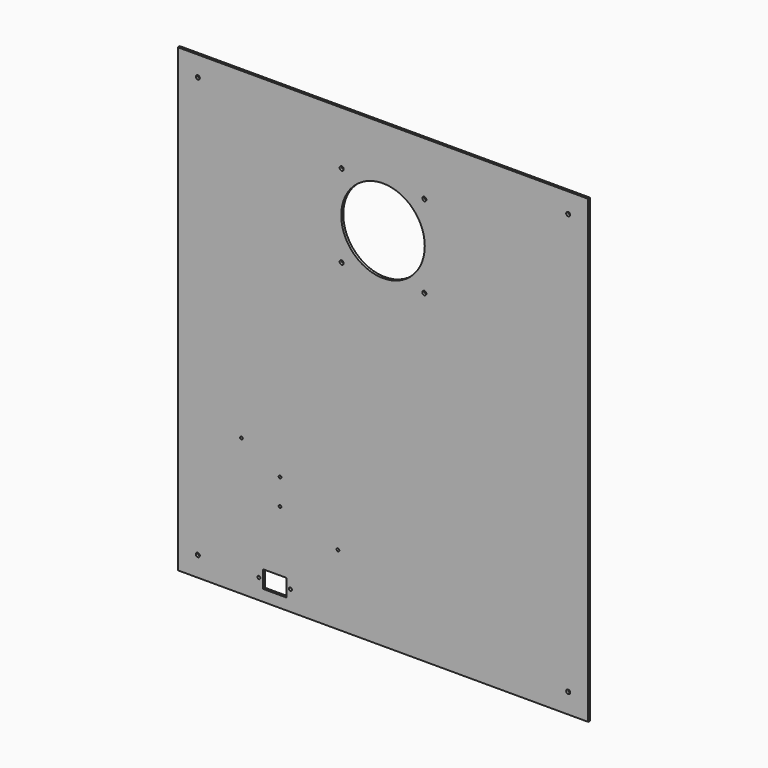
from build123d import *

# Parameters (mm, degrees)
SKETCH_W          = 520.7
SKETCH_H          = 584.2
PAD_DEPTH         = 3.175
CYLINDER_R        = 1.75
CYLINDER_DEPTH    = 3.175
CYLINDER001_R     = 1.75
CYLINDER001_DEPTH = 3.175
CYLINDER002_R     = 1.75
CYLINDER002_DEPTH = 3.175
CYLINDER003_R     = 1.75
CYLINDER003_DEPTH = 3.175
CYLINDER004_R     = 52.9996
CYLINDER004_DEPTH = 3.175
CYLINDER005_R     = 2.54
CYLINDER005_DEPTH = 3.175
CYLINDER006_R     = 2.54
CYLINDER006_DEPTH = 3.175
CYLINDER007_R     = 2.54
CYLINDER007_DEPTH = 3.175
CYLINDER008_R     = 2.54
CYLINDER008_DEPTH = 3.175
BOX_W             = 30
BOX_H             = 22
BOX_DEPTH         = 3.2
CYLINDER009_R     = 1.9
CYLINDER009_DEPTH = 3.2
CYLINDER010_R     = 1.9
CYLINDER010_DEPTH = 3.2
CYLINDER011_R     = 2.54
CYLINDER011_DEPTH = 3.175
CYLINDER012_R     = 2.54
CYLINDER012_DEPTH = 3.175
CYLINDER013_R     = 2.54
CYLINDER013_DEPTH = 3.175
CYLINDER014_R     = 2.54
CYLINDER014_DEPTH = 3.175


with BuildPart() as part:
    # Sketch → Pad (new body)
    with BuildSketch(Plane.XZ):
        Rectangle(SKETCH_W, SKETCH_H)
    extrude(amount=PAD_DEPTH)

    # Cylinder → Cylinder (cut)
    with BuildSketch(Plane(origin=(-179.64912, 0, -118.1989), x_dir=(1, 0, 0), z_dir=(0, -1, 0))):
        Circle(CYLINDER_R)
    extrude(amount=CYLINDER_DEPTH, mode=Mode.SUBTRACT)

    # Cylinder001 → Cylinder001 (cut)
    with BuildSketch(Plane(origin=(-57.14912, 0, -203.1989), x_dir=(1, 0, 0), z_dir=(0, -1, 0))):
        Circle(CYLINDER001_R)
    extrude(amount=CYLINDER001_DEPTH, mode=Mode.SUBTRACT)

    # Cylinder002 → Cylinder002 (cut)
    with BuildSketch(Plane(origin=(-130.64912, 0, -178.6989), x_dir=(1, 0, 0), z_dir=(0, -1, 0))):
        Circle(CYLINDER002_R)
    extrude(amount=CYLINDER002_DEPTH, mode=Mode.SUBTRACT)

    # Cylinder003 → Cylinder003 (cut)
    with BuildSketch(Plane(origin=(-130.64912, 0, -145.6989), x_dir=(1, 0, 0), z_dir=(0, -1, 0))):
        Circle(CYLINDER003_R)
    extrude(amount=CYLINDER003_DEPTH, mode=Mode.SUBTRACT)

    # Cylinder004 → Cylinder004 (cut)
    with BuildSketch(Plane(origin=(0.00086, 0, 171.8011), x_dir=(1, 0, 0), z_dir=(0, -1, 0))):
        Circle(CYLINDER004_R)
    extrude(amount=CYLINDER004_DEPTH, mode=Mode.SUBTRACT)

    # Cylinder005 → Cylinder005 (cut)
    with BuildSketch(Plane(origin=(-52.4984, 0, 224.30036), x_dir=(1, 0, 0), z_dir=(0, -1, 0))):
        Circle(CYLINDER005_R)
    extrude(amount=CYLINDER005_DEPTH, mode=Mode.SUBTRACT)

    # Cylinder006 → Cylinder006 (cut)
    with BuildSketch(Plane(origin=(52.50012, 0, 224.30036), x_dir=(1, 0, 0), z_dir=(0, -1, 0))):
        Circle(CYLINDER006_R)
    extrude(amount=CYLINDER006_DEPTH, mode=Mode.SUBTRACT)

    # Cylinder007 → Cylinder007 (cut)
    with BuildSketch(Plane(origin=(52.50012, 0, 119.30184), x_dir=(1, 0, 0), z_dir=(0, -1, 0))):
        Circle(CYLINDER007_R)
    extrude(amount=CYLINDER007_DEPTH, mode=Mode.SUBTRACT)

    # Cylinder008 → Cylinder008 (cut)
    with BuildSketch(Plane(origin=(-52.4984, 0, 119.30184), x_dir=(1, 0, 0), z_dir=(0, -1, 0))):
        Circle(CYLINDER008_R)
    extrude(amount=CYLINDER008_DEPTH, mode=Mode.SUBTRACT)

    # Box → Box (cut)
    with BuildSketch(Plane(origin=(-152.4984, 0.025, -277.69816), x_dir=(1, 0, 0), z_dir=(0, -1, 0))):
        with Locations((15, 11)):
            Rectangle(BOX_W, BOX_H)
    extrude(amount=BOX_DEPTH, mode=Mode.SUBTRACT)

    # Cylinder009 → Cylinder009 (cut)
    with BuildSketch(Plane(origin=(-157.4984, 0.025, -266.69816), x_dir=(1, 0, 0), z_dir=(0, -1, 0))):
        Circle(CYLINDER009_R)
    extrude(amount=CYLINDER009_DEPTH, mode=Mode.SUBTRACT)

    # Cylinder010 → Cylinder010 (cut)
    with BuildSketch(Plane(origin=(-117.4984, 0.025, -266.69816), x_dir=(1, 0, 0), z_dir=(0, -1, 0))):
        Circle(CYLINDER010_R)
    extrude(amount=CYLINDER010_DEPTH, mode=Mode.SUBTRACT)

    # Cylinder011 → Cylinder011 (cut)
    with BuildSketch(Plane(origin=(-234.95054, 0, -266.7007), x_dir=(1, 0, 0), z_dir=(0, -1, 0))):
        Circle(CYLINDER011_R)
    extrude(amount=CYLINDER011_DEPTH, mode=Mode.SUBTRACT)

    # Cylinder012 → Cylinder012 (cut)
    with BuildSketch(Plane(origin=(-234.95054, 0, 266.6993), x_dir=(1, 0, 0), z_dir=(0, -1, 0))):
        Circle(CYLINDER012_R)
    extrude(amount=CYLINDER012_DEPTH, mode=Mode.SUBTRACT)

    # Cylinder013 → Cylinder013 (cut)
    with BuildSketch(Plane(origin=(234.94946, 0, 266.6993), x_dir=(1, 0, 0), z_dir=(0, -1, 0))):
        Circle(CYLINDER013_R)
    extrude(amount=CYLINDER013_DEPTH, mode=Mode.SUBTRACT)

    # Cylinder014 → Cylinder014 (cut)
    with BuildSketch(Plane(origin=(234.94946, 0, -266.7007), x_dir=(1, 0, 0), z_dir=(0, -1, 0))):
        Circle(CYLINDER014_R)
    extrude(amount=CYLINDER014_DEPTH, mode=Mode.SUBTRACT)


solid = part.part
